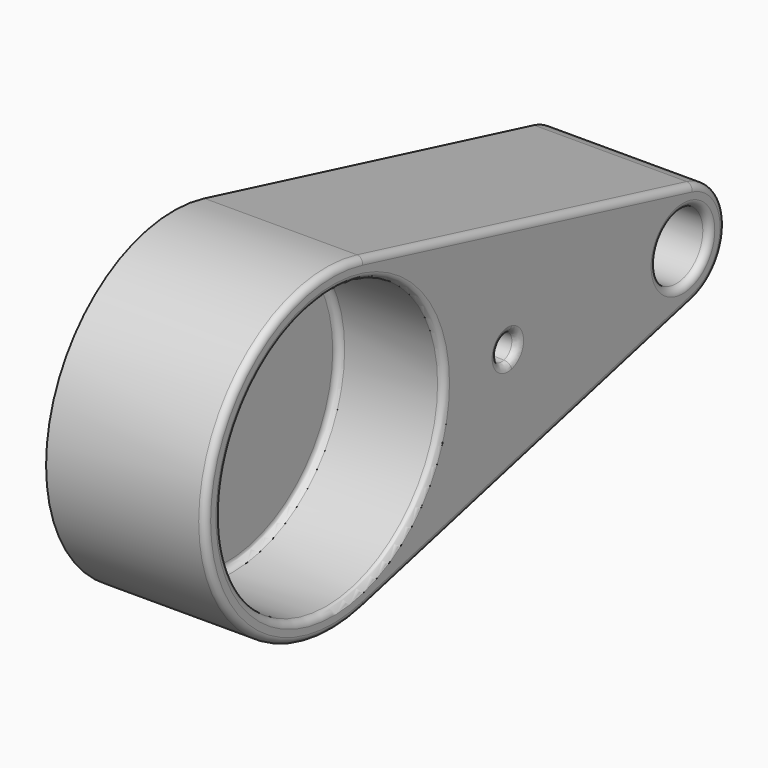
from build123d import *

# Parameters (mm, degrees)
F1_DEPTH = 76.2
F2_R     = 66.675
F2_R_2   = 15.875
F3_DEPTH = 50.8
F5_DEPTH = 73.66
F5_TAPER = 2
F6_R     = 3.175
F7_T     = -2.54
F9_D     = 4.4958


with BuildPart() as f1:
    # F0 (on Right) → F1 (new body)
    with BuildSketch(Plane.YZ):
        with BuildLine():
            ThreePointArc((234.8537657814, 0), (229.474183907, 15.6314701188), (215.6141706573, 24.6416195037))
            ThreePointArc((215.6141706573, 24.6416195037), (184.0537657814, 0), (215.6141706573, -24.6416195037))
            ThreePointArc((215.6141706573, -24.6416195037), (229.474183907, -15.6314701188), (234.8537657814, 0))
        make_face()
        with BuildLine():
            ThreePointArc((18.4812146278, 73.9248585111), (60.0612543768, 46.8944103565), (76.2, 0))
            ThreePointArc((76.2, 0), (60.0612543768, -46.8944103565), (18.4812146278, -73.9248585111))
            Line((18.4812146278, -73.9248585111), (215.6141706573, -24.6416195037))
            ThreePointArc((215.6141706573, -24.6416195037), (184.0537657814, 0), (215.6141706573, 24.6416195037))
            Line((215.6141706573, 24.6416195037), (18.4812146278, 73.9248585111))
        make_face()
        with BuildLine():
            ThreePointArc((18.4812146278, -73.9248585111), (60.0612543768, -46.8944103565), (76.2, 0))
            ThreePointArc((76.2, 0), (60.0612543768, 46.8944103565), (18.4812146278, 73.9248585111))
            ThreePointArc((18.4812146278, 73.9248585111), (-76.2, 0), (18.4812146278, -73.9248585111))
        make_face()
    extrude(amount=F1_DEPTH)

    # F2 (on face) → F3 (cut)
    with BuildSketch(Plane.YZ.offset(76.2)):
        Circle(F2_R)
        with Locations((209.4537657814, 0)):
            Circle(F2_R_2)
    extrude(amount=-F3_DEPTH, mode=Mode.SUBTRACT)

    # F4 (on face) → F5 (cut)
    with BuildSketch(Plane.YZ.offset(76.2)):
        with BuildLine():
            ThreePointArc((111.0768828907, 0), (109.7319874221, 3.9078675297), (106.2669841097, 6.1604048759))
            Line((106.2669841097, 6.1604048759), (104.7268828907, 0))
            Line((104.7268828907, 0), (106.2669841097, -6.1604048759))
            ThreePointArc((106.2669841097, -6.1604048759), (109.7319874221, -3.9078675297), (111.0768828907, 0))
        make_face()
        with BuildLine():
            Line((104.7268828907, 0), (106.2669841097, 6.1604048759))
            ThreePointArc((106.2669841097, 6.1604048759), (98.3768828907, 0), (106.2669841097, -6.1604048759))
            Line((106.2669841097, -6.1604048759), (104.7268828907, 0))
        make_face()
    extrude(amount=-F5_DEPTH, taper=F5_TAPER, mode=Mode.SUBTRACT)

    # F6
    f6_edges = [f1.edges().sort_by_distance(p)[0] for p in [
        (76.2, 234.853766, 0),
        (76.2, 117.047693, -49.283239),
        (76.2, 117.047693, 49.283239),
        (76.2, -76.2, 0),
        (76.2, -66.675, 0),
        (76.2, 98.376883, 0),
        (76.2, 193.578766, 0),
        (25.4, -66.675, 0),
    ]]
    fillet(f6_edges, radius=F6_R)

    # F7
    f7_openings = [f1.faces().sort_by_distance(p)[0] for p in [
        (0, 57.51924, 0),
    ]]
    offset(amount=F7_T, openings=f7_openings, kind=Kind.INTERSECTION)

    # F9 (through all)
    with Locations(Plane(origin=(0, 0, 0), x_dir=(0, -1, 0), z_dir=(-1, 0, 0))):
        with Locations((-104.7268828907, 0)):
            Hole(F9_D / 2)


solid = f1.part
